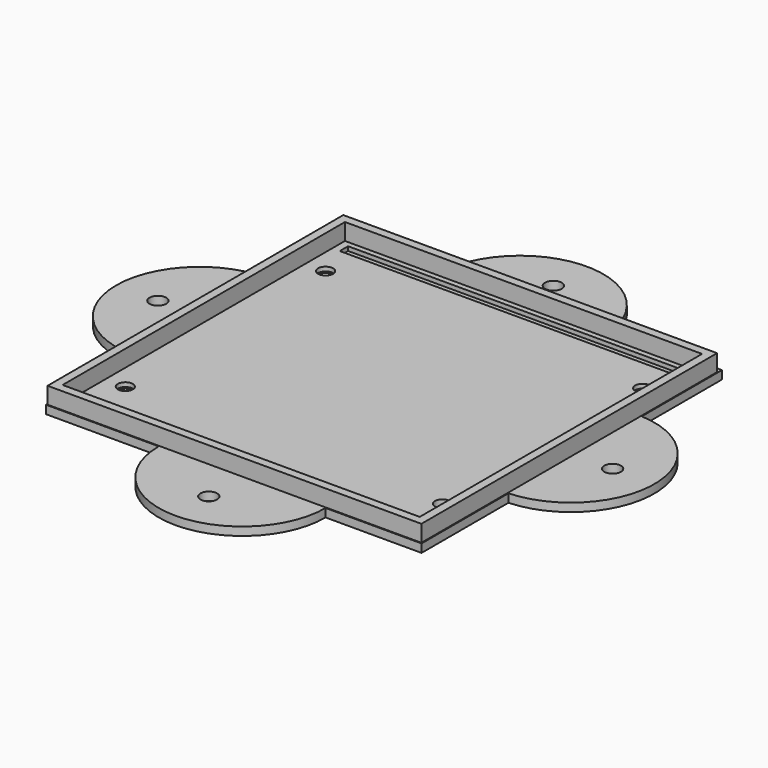
from build123d import *

# Parameters (mm, degrees)
CYLINDER015_R          = 1.8
CYLINDER015_DEPTH      = 300
CYLINDER013_R          = 1.8
CYLINDER013_DEPTH      = 300
CYLINDER012_R          = 1.8
CYLINDER012_DEPTH      = 300
BOX034_W               = 82
BOX034_H               = 2.5
BOX034_DEPTH           = 1
BOX030_W               = 82
BOX030_H               = 2.5
BOX030_DEPTH           = 1
CYLINDER016_R          = 3
CYLINDER016_DEPTH      = 1
CYLINDER017_R          = 3
CYLINDER017_DEPTH      = 1
CYLINDER018_R          = 3
CYLINDER018_DEPTH      = 1
CYLINDER014_R          = 1.8
CYLINDER014_DEPTH      = 300
BOX035_W               = 84
BOX035_H               = 2
BOX035_DEPTH           = 2
BOX038_W               = 85.6
BOX038_H               = 84.6
BOX038_DEPTH           = 4
THICKNESS001_T         = 2
CYLINDER022_R          = 2
CYLINDER022_DEPTH      = 10
CYLINDER021_R          = 20
CYLINDER021_DEPTH      = 2
CYLINDER023_R          = 2
CYLINDER023_DEPTH      = 10
CYLINDER020_R          = 20
CYLINDER020_DEPTH      = 2
CYLINDER026_R          = 2
CYLINDER026_DEPTH      = 10
CYLINDER027_W          = 20
CYLINDER027_H          = 2
CYLINDER027_ANGLE      = 180
CUT007_PLACEMENT_ANGLE = 90
CYLINDER024_R          = 2
CYLINDER024_DEPTH      = 10
CYLINDER025_W          = 20
CYLINDER025_H          = 2
CYLINDER025_ANGLE      = 180
CUT006_PLACEMENT_ANGLE = 90
BOX029_W               = 90
BOX029_H               = 90
BOX029_DEPTH           = 2


with BuildPart() as cylinder015:
    # Cylinder015 → Cylinder015 (new body)
    with BuildSketch(Plane(origin=(2, 70, -69), x_dir=(1, 0, 0), z_dir=(0, 0, 1))):
        Circle(CYLINDER015_R)
    extrude(amount=CYLINDER015_DEPTH)


with BuildPart() as cylinder013:
    # Cylinder013 → Cylinder013 (new body)
    with BuildSketch(Plane(origin=(78, 70, -107), x_dir=(1, 0, 0), z_dir=(0, 0, 1))):
        Circle(CYLINDER013_R)
    extrude(amount=CYLINDER013_DEPTH)


with BuildPart() as cylinder012:
    # Cylinder012 → Cylinder012 (new body)
    with BuildSketch(Plane(origin=(78, 10, -70), x_dir=(1, 0, 0), z_dir=(0, 0, 1))):
        Circle(CYLINDER012_R)
    extrude(amount=CYLINDER012_DEPTH)


with BuildPart() as cube022:
    # Box034 → Box034 (new body)
    with BuildSketch(Plane(origin=(-1, 78, 1), x_dir=(1, 0, 0), z_dir=(0, 0, 1))):
        with Locations((41, 1.25)):
            Rectangle(BOX034_W, BOX034_H)
    extrude(amount=BOX034_DEPTH)


with BuildPart() as cube018:
    # Box030 → Box030 (new body)
    with BuildSketch(Plane(origin=(-1, 0, 1), x_dir=(1, 0, 0), z_dir=(0, 0, 1))):
        with Locations((41, 1.25)):
            Rectangle(BOX030_W, BOX030_H)
    extrude(amount=BOX030_DEPTH)


with BuildPart() as cylinder016:
    # Cylinder016 → Cylinder016 (new body)
    with BuildSketch(Plane(origin=(2, 10, 0), x_dir=(1, 0, 0), z_dir=(0, 0, 1))):
        Circle(CYLINDER016_R)
    extrude(amount=CYLINDER016_DEPTH)


with BuildPart() as cylinder017:
    # Cylinder017 → Cylinder017 (new body)
    with BuildSketch(Plane(origin=(2, 70, 0), x_dir=(1, 0, 0), z_dir=(0, 0, 1))):
        Circle(CYLINDER017_R)
    extrude(amount=CYLINDER017_DEPTH)


with BuildPart() as cylinder018:
    # Cylinder018 → Cylinder018 (new body)
    with BuildSketch(Plane(origin=(78, 70, 0), x_dir=(1, 0, 0), z_dir=(0, 0, 1))):
        Circle(CYLINDER018_R)
    extrude(amount=CYLINDER018_DEPTH)


with BuildPart() as fusion008:
    # Cylinder014 → Cylinder014 (new body)
    with BuildSketch(Plane(origin=(2, 10, -63), x_dir=(1, 0, 0), z_dir=(0, 0, 1))):
        Circle(CYLINDER014_R)
    extrude(amount=CYLINDER014_DEPTH)

    # Fusion008: union Cylinder015, Cylinder013, Cylinder012, Cube022, Cube018, Cylinder016, Cylinder017, Cylinder018
    add(cylinder015.part)
    add(cylinder013.part)
    add(cylinder012.part)
    add(cube022.part)
    add(cube018.part)
    add(cylinder016.part)
    add(cylinder017.part)
    add(cylinder018.part)


with BuildPart() as cube023:
    # Box035 → Box035 (new body)
    with BuildSketch(Plane(origin=(-2, -4, 1), x_dir=(1, 0, 0), z_dir=(0, 0, 1))):
        with Locations((42, 1)):
            Rectangle(BOX035_W, BOX035_H)
    extrude(amount=BOX035_DEPTH)


with BuildPart() as thickness001:
    # Box038 → Box038 (new body)
    with BuildSketch(Plane(origin=(-2.8, -2.8, 2), x_dir=(1, 0, 0), z_dir=(0, 0, 1))):
        with Locations((42.8, 42.3)):
            Rectangle(BOX038_W, BOX038_H)
    extrude(amount=BOX038_DEPTH)

    # Thickness001
    thickness001_openings = [thickness001.faces().sort_by_distance(p)[0] for p in [
        (40, 39.5, 2),
        (40, 39.5, 6),
    ]]
    offset(amount=THICKNESS001_T, openings=thickness001_openings, kind=Kind.INTERSECTION)


with BuildPart() as cylinder022:
    # Cylinder022 → Cylinder022 (new body)
    with BuildSketch(Plane(origin=(94, 41, 0), x_dir=(1, 0, 0), z_dir=(0, 0, 1))):
        Circle(CYLINDER022_R)
    extrude(amount=CYLINDER022_DEPTH)


with BuildPart() as cut004:
    # Cylinder021 → Cylinder021 (new body)
    with BuildSketch(Plane(origin=(84, 41, 0), x_dir=(1, 0, 0), z_dir=(0, 0, 1))):
        Circle(CYLINDER021_R)
    extrude(amount=CYLINDER021_DEPTH)

    # Cut004: cut Cylinder022
    add(cylinder022.part, mode=Mode.SUBTRACT)


with BuildPart() as cylinder023:
    # Cylinder023 → Cylinder023 (new body)
    with BuildSketch(Plane(origin=(-15, 41, 0), x_dir=(1, 0, 0), z_dir=(0, 0, 1))):
        Circle(CYLINDER023_R)
    extrude(amount=CYLINDER023_DEPTH)


with BuildPart() as cut005:
    # Cylinder020 → Cylinder020 (new body)
    with BuildSketch(Plane(origin=(-5, 41, 0), x_dir=(1, 0, 0), z_dir=(0, 0, 1))):
        Circle(CYLINDER020_R)
    extrude(amount=CYLINDER020_DEPTH)

    # Cut005: cut Cylinder023
    add(cylinder023.part, mode=Mode.SUBTRACT)


with BuildPart() as cylinder026:
    # Cylinder026 → Cylinder026 (new body)
    with BuildSketch(Plane(origin=(-15, 41, 0), x_dir=(1, 0, 0), z_dir=(0, 0, 1))):
        Circle(CYLINDER026_R)
    extrude(amount=CYLINDER026_DEPTH)


with BuildPart() as cut007:
    # Cylinder027 → Cylinder027 (revolve)
    with BuildSketch(Plane(origin=(-5, 41, 0), x_dir=(0, 1, 0), z_dir=(1, 0, 0))):
        with Locations((10, 1)):
            Rectangle(CYLINDER027_W, CYLINDER027_H)
    revolve(axis=Axis((-5, 41, 0), (0, 0, 1)), revolution_arc=CYLINDER027_ANGLE)

    # Cut007: cut Cylinder026
    add(cylinder026.part, mode=Mode.SUBTRACT)


with BuildPart() as cut007_1:
    # Cut007 placement: moved
    add(cut007.part.moved(Location((-2, 77, 0))).rotate(Axis((-2, 77, 0), (0, 0, -1)), CUT007_PLACEMENT_ANGLE))


with BuildPart() as cylinder024:
    # Cylinder024 → Cylinder024 (new body)
    with BuildSketch(Plane(origin=(-15, 41, 0), x_dir=(1, 0, 0), z_dir=(0, 0, 1))):
        Circle(CYLINDER024_R)
    extrude(amount=CYLINDER024_DEPTH)


with BuildPart() as cut006:
    # Cylinder025 → Cylinder025 (revolve)
    with BuildSketch(Plane(origin=(-5, 41, 0), x_dir=(0, 1, 0), z_dir=(1, 0, 0))):
        with Locations((10, 1)):
            Rectangle(CYLINDER025_W, CYLINDER025_H)
    revolve(axis=Axis((-5, 41, 0), (0, 0, 1)), revolution_arc=CYLINDER025_ANGLE)

    # Cut006: cut Cylinder024
    add(cylinder024.part, mode=Mode.SUBTRACT)


with BuildPart() as cut006_1:
    # Cut006 placement: moved
    add(cut006.part.moved(Location((83, 0, 0))).rotate(Axis((83, 0, 0), (0, 0, 1)), CUT006_PLACEMENT_ANGLE))


with BuildPart() as obj1:
    # Box029 → Box029 (new body)
    with BuildSketch(Plane(origin=(-5, -5, 0), x_dir=(1, 0, 0), z_dir=(0, 0, 1))):
        with Locations((45, 45)):
            Rectangle(BOX029_W, BOX029_H)
    extrude(amount=BOX029_DEPTH)

    # Fusion007: union Cube023, Thickness001, Cut004, Cut005, Cut007, Cut006
    add(cube023.part)
    add(thickness001.part)
    add(cut004.part)
    add(cut005.part)
    add(cut007_1.part)
    add(cut006_1.part)

    # Cut003: cut Fusion008
    add(fusion008.part, mode=Mode.SUBTRACT)


solid = obj1.part
